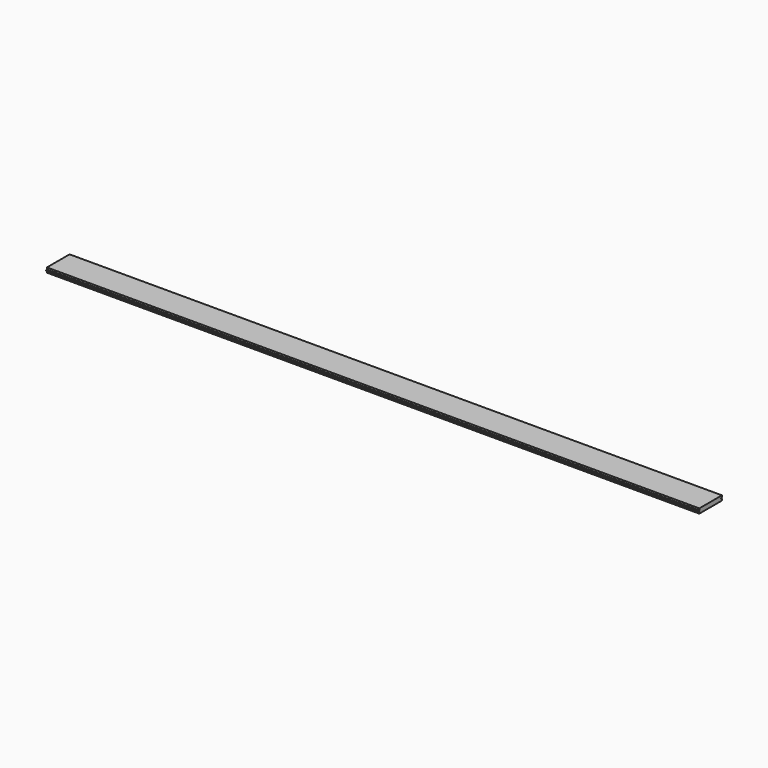
from build123d import *

# Parameters (mm, degrees)
F1_DEPTH = 3000
F2_SIZE  = 1
F3_SIZE  = 1


with BuildPart() as f1:
    # F0 (on Right) → F1 (new body)
    with BuildSketch(Plane.YZ):
        Polygon((0, 8), (0, 0), (130, 0), (130, 8), (125, 8), (125, 13), (130, 13), (130, 21.5), (0, 21.5), (0, 13), (-5, 13), (-5, 8), align=None)
    extrude(amount=-F1_DEPTH)

    # F2
    f2_edges = [f1.edges().sort_by_distance(p)[0] for p in [
        (-1500, -5, 13),
        (-1500, -5, 8),
    ]]
    chamfer(f2_edges, length=F2_SIZE)

    # F3
    f3_edges = [f1.edges().sort_by_distance(p)[0] for p in [
        (-1500, 130, 8),
        (-1500, 130, 13),
    ]]
    chamfer(f3_edges, length=F3_SIZE)


solid = f1.part
